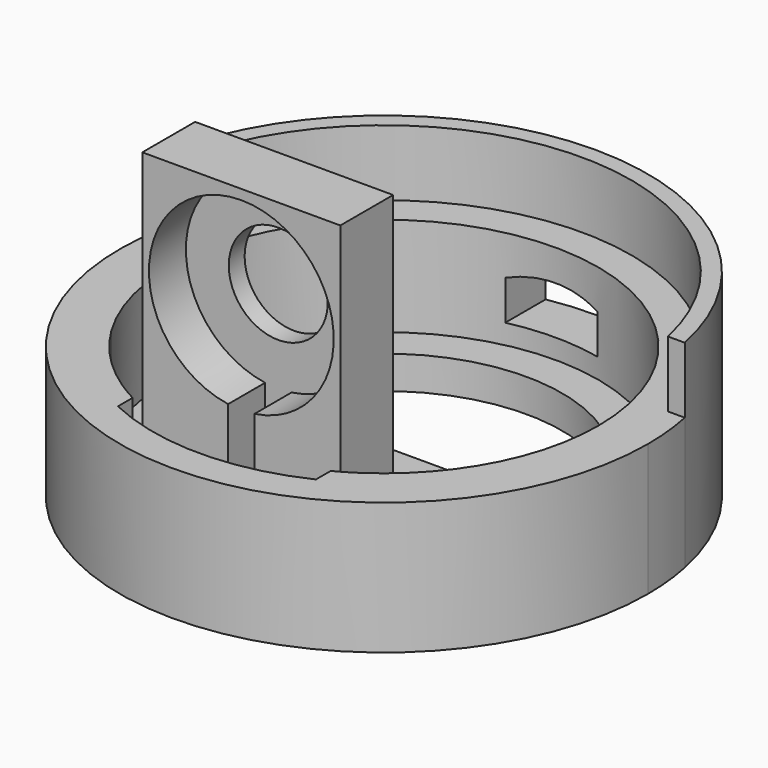
from build123d import *

# Parameters (mm, degrees)
F3_DEPTH  = 20
F4_DEPTH  = 30
F5_DEPTH  = 5
F6_DEPTH  = 52
F8_DEPTH  = 10
F9_DEPTH  = 7
F11_W     = 14
F11_H     = 6
F12_DEPTH = 20
F13_R     = 7.5
F14_DEPTH = 25


with BuildPart() as f3:
    # F2 (on Top) → F3 (new body)
    with BuildSketch(Plane.XY):
        with BuildLine():
            ThreePointArc((37.5, 0), (-4.0232211828, -37.2835579219), (-36.6367302034, 8))
            Line((-36.6367302034, 8), (-39.1918358845, 8))
            ThreePointArc((-39.1918358845, 8), (-4.0203584802, -39.7974461202), (40, 0))
            ThreePointArc((40, 0), (39.7974461202, 4.0203584802), (39.1918358845, 8))
            Line((39.1918358845, 8), (36.6367302034, 8))
            ThreePointArc((36.6367302034, 8), (37.2835579219, 4.0232211828), (37.5, 0))
        make_face()
        with BuildLine():
            Line((-39.1918358845, 8), (-36.6367302034, 8))
            ThreePointArc((-36.6367302034, 8), (0, 37.5), (36.6367302034, 8))
            Line((36.6367302034, 8), (39.1918358845, 8))
            ThreePointArc((39.1918358845, 8), (0, 40), (-39.1918358845, 8))
        make_face()
        with BuildLine():
            Line((-36.6367302034, 8), (-34.0734500748, 8))
            ThreePointArc((-34.0734500748, 8), (0, 35), (34.0734500748, 8))
            Line((34.0734500748, 8), (36.6367302034, 8))
            ThreePointArc((36.6367302034, 8), (0, 37.5), (-36.6367302034, 8))
        make_face()
        with BuildLine():
            ThreePointArc((-22.2710574513, -27), (-26.9013321157, -22.3901391332), (-30.5941170816, -17))
            ThreePointArc((-30.5941170816, -17), (-34.6658846776, -4.824566252), (-34.0734500748, 8))
            Line((-34.0734500748, 8), (-36.6367302034, 8))
            ThreePointArc((-36.6367302034, 8), (-4.0232211828, -37.2835579219), (37.5, 0))
            ThreePointArc((37.5, 0), (37.2835579219, 4.0232211828), (36.6367302034, 8))
            Line((36.6367302034, 8), (34.0734500748, 8))
            ThreePointArc((34.0734500748, 8), (34.7675908902, 4.0267385923), (35, 0))
            ThreePointArc((35, 0), (33.8806294057, -8.7808286097), (30.5941170816, -17))
            ThreePointArc((30.5941170816, -17), (26.9013321157, -22.3901391332), (22.2710574513, -27))
            ThreePointArc((22.2710574513, -27), (18.7783238539, -29.5359874262), (15, -31.6227766017))
            ThreePointArc((15, -31.6227766017), (0, -35), (-15, -31.6227766017))
            ThreePointArc((-15, -31.6227766017), (-18.7783238539, -29.5359874262), (-22.2710574513, -27))
        make_face()
        with BuildLine():
            ThreePointArc((-34.0734500748, 8), (-34.6658846776, -4.824566252), (-30.5941170816, -17))
            Line((-30.5941170816, -17), (-27.6992779689, -17))
            ThreePointArc((-27.6992779689, -17), (-32.1308049699, -4.884810333), (-31.5, 8))
            Line((-31.5, 8), (-34.0734500748, 8))
        make_face()
        with BuildLine():
            ThreePointArc((34.0734500748, 8), (0, 35), (-34.0734500748, 8))
            Line((-34.0734500748, 8), (-31.5, 8))
            ThreePointArc((-31.5, 8), (0, 32.5), (31.5, 8))
            Line((31.5, 8), (34.0734500748, 8))
        make_face()
        with BuildLine():
            ThreePointArc((35, 0), (34.7675908902, 4.0267385923), (34.0734500748, 8))
            Line((34.0734500748, 8), (31.5, 8))
            ThreePointArc((31.5, 8), (32.2490309932, 4.0311288741), (32.5, 0))
            ThreePointArc((32.5, 0), (31.2768007794, -8.8324250919), (27.6992779689, -17))
            Line((27.6992779689, -17), (30.5941170816, -17))
            ThreePointArc((30.5941170816, -17), (33.8806294057, -8.7808286097), (35, 0))
        make_face()
        with BuildLine():
            Line((-27.6992779689, -17), (-30.5941170816, -17))
            ThreePointArc((-30.5941170816, -17), (-26.9013321157, -22.3901391332), (-22.2710574513, -27))
            Line((-22.2710574513, -27), (-18.0900525151, -27))
            ThreePointArc((-18.0900525151, -27), (-23.4342846391, -22.5185324445), (-27.6992779689, -17))
        make_face()
        with BuildLine():
            Line((18.0900525151, -27), (22.2710574513, -27))
            ThreePointArc((22.2710574513, -27), (26.9013321157, -22.3901391332), (30.5941170816, -17))
            Line((30.5941170816, -17), (27.6992779689, -17))
            ThreePointArc((27.6992779689, -17), (23.4342846391, -22.5185324445), (18.0900525151, -27))
        make_face()
        with BuildLine():
            Line((-18.0900525151, -27), (-22.2710574513, -27))
            ThreePointArc((-22.2710574513, -27), (-18.7783238539, -29.5359874262), (-15, -31.6227766017))
            Line((-15, -31.6227766017), (-15, -28.8314064867))
            ThreePointArc((-15, -28.8314064867), (-16.5703471989, -27.9584261665), (-18.0900525151, -27))
        make_face()
        with BuildLine():
            Line((15, -28.8314064867), (15, -31.6227766017))
            ThreePointArc((15, -31.6227766017), (18.7783238539, -29.5359874262), (22.2710574513, -27))
            Line((22.2710574513, -27), (18.0900525151, -27))
            ThreePointArc((18.0900525151, -27), (16.5703471989, -27.9584261665), (15, -28.8314064867))
        make_face()
    extrude(amount=F3_DEPTH)

    # F2 (on Top) → F4 (join)
    with BuildSketch(Plane.XY):
        with BuildLine():
            Line((-39.1918358845, 8), (-36.6367302034, 8))
            ThreePointArc((-36.6367302034, 8), (0, 37.5), (36.6367302034, 8))
            Line((36.6367302034, 8), (39.1918358845, 8))
            ThreePointArc((39.1918358845, 8), (0, 40), (-39.1918358845, 8))
        make_face()
    extrude(amount=F4_DEPTH)

    # F2 (on Top) → F5 (join)
    with BuildSketch(Plane.XY):
        with BuildLine():
            ThreePointArc((-31.5, 8), (-32.1308049699, -4.884810333), (-27.6992779689, -17))
            ThreePointArc((-27.6992779689, -17), (-23.4342846391, -22.5185324445), (-18.0900525151, -27))
            Line((-18.0900525151, -27), (-15, -27))
            Line((-15, -27), (-15, -22.4499443206))
            ThreePointArc((-15, -22.4499443206), (-23.1962851655, -13.8178274168), (-26.8840101175, -2.5))
            Line((-26.8840101175, -2.5), (-30, -2.5))
            Line((-30, -2.5), (-30, 2.5))
            Line((-30, 2.5), (-26.8840101175, 2.5))
            ThreePointArc((-26.8840101175, 2.5), (-26.4789910661, 5.2785445079), (-25.7875939165, 8))
            Line((-25.7875939165, 8), (-31.5, 8))
        make_face()
        with BuildLine():
            Line((-27.6992779689, -17), (-30.5941170816, -17))
            ThreePointArc((-30.5941170816, -17), (-26.9013321157, -22.3901391332), (-22.2710574513, -27))
            Line((-22.2710574513, -27), (-18.0900525151, -27))
            ThreePointArc((-18.0900525151, -27), (-23.4342846391, -22.5185324445), (-27.6992779689, -17))
        make_face()
        with BuildLine():
            Line((18.0900525151, -27), (22.2710574513, -27))
            ThreePointArc((22.2710574513, -27), (26.9013321157, -22.3901391332), (30.5941170816, -17))
            Line((30.5941170816, -17), (27.6992779689, -17))
            ThreePointArc((27.6992779689, -17), (23.4342846391, -22.5185324445), (18.0900525151, -27))
        make_face()
        with BuildLine():
            ThreePointArc((32.5, 0), (32.2490309932, 4.0311288741), (31.5, 8))
            Line((31.5, 8), (25.7875939165, 8))
            ThreePointArc((25.7875939165, 8), (26.4789910661, 5.2785445079), (26.8840101175, 2.5))
            Line((26.8840101175, 2.5), (30, 2.5))
            Line((30, 2.5), (30, -2.5))
            Line((30, -2.5), (26.8840101175, -2.5))
            ThreePointArc((26.8840101175, -2.5), (23.1962851655, -13.8178274168), (15, -22.4499443206))
            Line((15, -22.4499443206), (15, -27))
            Line((15, -27), (18.0900525151, -27))
            ThreePointArc((18.0900525151, -27), (23.4342846391, -22.5185324445), (27.6992779689, -17))
            ThreePointArc((27.6992779689, -17), (31.2768007794, -8.8324250919), (32.5, 0))
        make_face()
        with BuildLine():
            ThreePointArc((35, 0), (34.7675908902, 4.0267385923), (34.0734500748, 8))
            Line((34.0734500748, 8), (31.5, 8))
            ThreePointArc((31.5, 8), (32.2490309932, 4.0311288741), (32.5, 0))
            ThreePointArc((32.5, 0), (31.2768007794, -8.8324250919), (27.6992779689, -17))
            Line((27.6992779689, -17), (30.5941170816, -17))
            ThreePointArc((30.5941170816, -17), (33.8806294057, -8.7808286097), (35, 0))
        make_face()
        with BuildLine():
            ThreePointArc((31.5, 8), (0, 32.5), (-31.5, 8))
            Line((-31.5, 8), (-25.7875939165, 8))
            ThreePointArc((-25.7875939165, 8), (0, 27), (25.7875939165, 8))
            Line((25.7875939165, 8), (31.5, 8))
        make_face()
        with BuildLine():
            ThreePointArc((34.0734500748, 8), (0, 35), (-34.0734500748, 8))
            Line((-34.0734500748, 8), (-31.5, 8))
            ThreePointArc((-31.5, 8), (0, 32.5), (31.5, 8))
            Line((31.5, 8), (34.0734500748, 8))
        make_face()
        with BuildLine():
            ThreePointArc((-26.8840101175, -2.5), (-27, 0), (-26.8840101175, 2.5))
            Line((-26.8840101175, 2.5), (-30, 2.5))
            Line((-30, 2.5), (-30, -2.5))
            Line((-30, -2.5), (-26.8840101175, -2.5))
        make_face()
        with BuildLine():
            Line((30, 2.5), (26.8840101175, 2.5))
            ThreePointArc((26.8840101175, 2.5), (26.9709869413, 1.2513446421), (27, 0))
            ThreePointArc((27, 0), (26.9709869413, -1.2513446421), (26.8840101175, -2.5))
            Line((26.8840101175, -2.5), (30, -2.5))
            Line((30, -2.5), (30, 2.5))
        make_face()
        with BuildLine():
            Line((26.8840101175, 2.5), (-26.8840101175, 2.5))
            ThreePointArc((-26.8840101175, 2.5), (-27, 0), (-26.8840101175, -2.5))
            Line((-26.8840101175, -2.5), (26.8840101175, -2.5))
            ThreePointArc((26.8840101175, -2.5), (26.9709869413, -1.2513446421), (27, 0))
            ThreePointArc((27, 0), (26.9709869413, 1.2513446421), (26.8840101175, 2.5))
        make_face()
    extrude(amount=F5_DEPTH)

    # F2 (on Top) → F6 (join)
    with BuildSketch(Plane.XY):
        with BuildLine():
            ThreePointArc((-15, -22.4499443206), (-7.8374582405, -25.8374582405), (0, -27))
            ThreePointArc((0, -27), (7.8374582405, -25.8374582405), (15, -22.4499443206))
            Line((15, -22.4499443206), (15, -17))
            Line((15, -17), (-15, -17))
            Line((-15, -17), (-15, -22.4499443206))
        make_face()
        with BuildLine():
            Line((-15, -22.4499443206), (-15, -27))
            Line((-15, -27), (0, -27))
            ThreePointArc((0, -27), (-7.8374582405, -25.8374582405), (-15, -22.4499443206))
        make_face()
        with BuildLine():
            ThreePointArc((15, -22.4499443206), (7.8374582405, -25.8374582405), (0, -27))
            Line((0, -27), (15, -27))
            Line((15, -27), (15, -22.4499443206))
        make_face()
    extrude(amount=F6_DEPTH)

    # F7 (on face) → F8 (cut)
    with BuildSketch(Plane.XZ.offset(27)):
        with BuildLine():
            Line((-2.5, 5), (2.5, 5))
            ThreePointArc((2.5, 5), (2.2360679775, 6.1180339887), (1.5, 7))
            ThreePointArc((1.5, 7), (0.790569415, 7.3717082451), (0, 7.5))
            ThreePointArc((0, 7.5), (-0.790569415, 7.3717082451), (-1.5, 7))
            ThreePointArc((-1.5, 7), (-2.2360679775, 6.1180339887), (-2.5, 5))
        make_face()
        with BuildLine():
            ThreePointArc((-2.5, 5), (0, 2.5), (2.5, 5))
            Line((2.5, 5), (-2.5, 5))
        make_face()
        with BuildLine():
            Line((-2.5, 0), (2.5, 0))
            Line((2.5, 0), (2.5, 5))
            ThreePointArc((2.5, 5), (0, 2.5), (-2.5, 5))
            Line((-2.5, 5), (-2.5, 0))
        make_face()
    extrude(amount=-F8_DEPTH, mode=Mode.SUBTRACT)

    # F7 (on face) → F9 (cut)
    with BuildSketch(Plane.XZ.offset(27)):
        Polygon((-1.5, 7.5), (0, 7.5), (1.5, 7.5), (1.5, 11.5), (-1.5, 11.5), align=None)
        Polygon((-1.5, 11.5), (1.5, 11.5), (2, 11.5), (2, 22.5), (0, 22.5), (-2, 22.5), (-2, 11.5), align=None)
        with BuildLine():
            Line((-1.5, 7.5), (-1.5, 7))
            ThreePointArc((-1.5, 7), (-0.790569415, 7.3717082451), (0, 7.5))
            Line((0, 7.5), (-1.5, 7.5))
        make_face()
        with BuildLine():
            ThreePointArc((0, 7.5), (0.790569415, 7.3717082451), (1.5, 7))
            Line((1.5, 7), (1.5, 7.5))
            Line((1.5, 7.5), (0, 7.5))
        make_face()
        with BuildLine():
            ThreePointArc((-2, 22.6435935394), (-1.0025740751, 22.535944528), (0, 22.5))
            ThreePointArc((0, 22.5), (1.0025740751, 22.535944528), (2, 22.6435935394))
            ThreePointArc((2, 22.6435935394), (10.5830052443, 27.3348486101), (14, 36.5))
            ThreePointArc((14, 36.5), (-9.1651513899, 47.0830052443), (-2, 22.6435935394))
        make_face()
        with BuildLine():
            Line((-2, 22.6435935394), (-2, 22.5))
            Line((-2, 22.5), (0, 22.5))
            ThreePointArc((0, 22.5), (-1.0025740751, 22.535944528), (-2, 22.6435935394))
        make_face()
        with BuildLine():
            Line((0, 22.5), (2, 22.5))
            Line((2, 22.5), (2, 22.6435935394))
            ThreePointArc((2, 22.6435935394), (1.0025740751, 22.535944528), (0, 22.5))
        make_face()
    extrude(amount=-F9_DEPTH, mode=Mode.SUBTRACT)

    # F11 (on offset) → F12 (cut)
    with BuildSketch(Plane.XZ.offset(-40)):
        with Locations((0, 11)):
            Rectangle(F11_W, F11_H)
        with BuildLine():
            ThreePointArc((7, 14), (0, 15.2650060048), (-7, 14))
            Line((-7, 14), (7, 14))
        make_face()
    extrude(amount=F12_DEPTH, mode=Mode.SUBTRACT)

    # F13 (on face) → F14 (cut)
    with BuildSketch(Plane(origin=(0, -17, 0), x_dir=(-1, 0, 0), z_dir=(0, 1, 0))):
        with Locations((0, 36.5)):
            Circle(F13_R)
    extrude(amount=-F14_DEPTH, mode=Mode.SUBTRACT)


solid = f3.part
